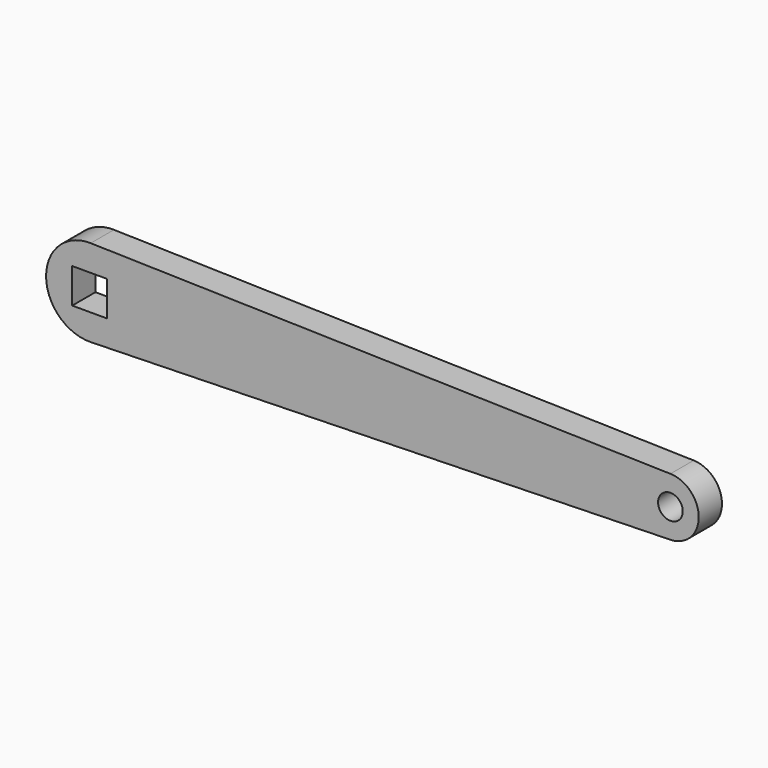
from build123d import *

# Parameters (mm, degrees)
F0_W     = 12
F0_H     = 12
F1_DEPTH = 10
F2_D     = 8.5
F2_DEPTH = 16.5
F2_TIP   = 2.5536576309


with BuildPart() as f1:
    # F0 (on Front) → F1 (new body)
    with BuildSketch(Plane.XZ):
        with BuildLine():
            Line((199.6245300745, 9.9968666721), (0, 14.9953000082))
            ThreePointArc((0, 14.9953000082), (-15.3754699255, 0), (0, -14.9953000082))
            Line((0, -14.9953000082), (199.6245300745, -9.9968666721))
            ThreePointArc((199.6245300745, -9.9968666721), (209.3742167908, 0), (199.6245300745, 9.9968666721))
        make_face()
        with Locations((-0.3754699255, 0)):
            Rectangle(F0_W, F0_H, mode=Mode.SUBTRACT)
    extrude(amount=-F1_DEPTH)

    # F2
    with Locations(Plane.XZ):
        with Locations((199.6245300745, 0)):
            Hole(F2_D / 2, depth=F2_DEPTH)
            with Locations((0, 0, -(F2_DEPTH + F2_TIP / 2))):  # 118° drill point
                Cone(0, F2_D / 2, F2_TIP, mode=Mode.SUBTRACT)


solid = f1.part
